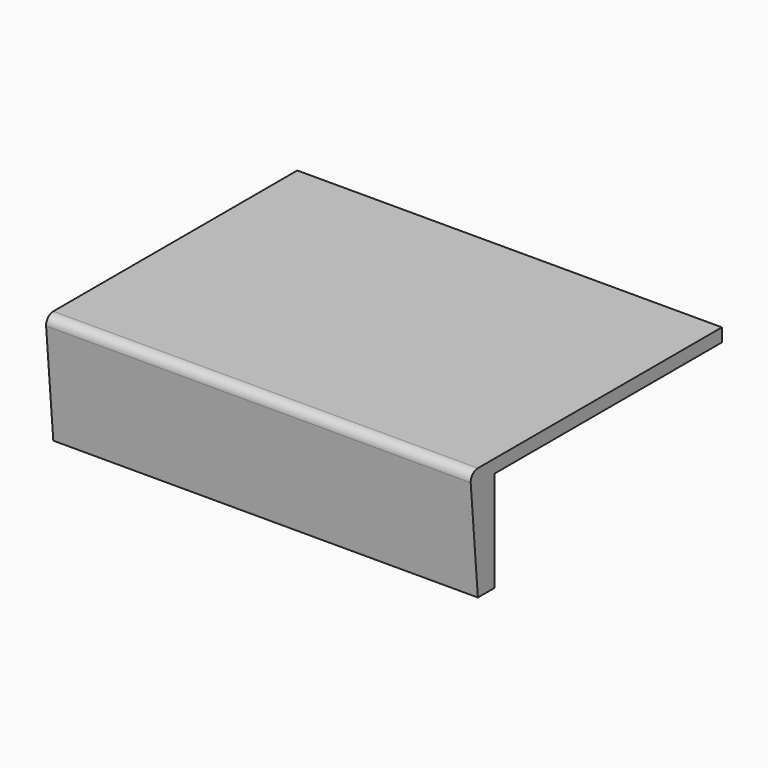
from build123d import *

# Parameters (mm, degrees)
F1_DEPTH = 609.6


with BuildPart() as f1:
    # F0 (on Right) → F1 (new body)
    with BuildSketch(Plane.YZ):
        with BuildLine():
            Line((-143.804814, -89.440058), (-143.804814, 55.022442))
            Line((-143.804814, 55.022442), (264.182686, 55.022442))
            Line((264.182686, 55.022442), (264.182686, 74.072442))
            Line((264.182686, 74.072442), (-173.666681, 74.072442))
            ThreePointArc((-173.666681, 74.072442), (-183.036482, 70.278105), (-186.667314, 60.843743))
            Line((-186.667314, 60.843743), (-173.74242, -89.440058))
            Line((-173.74242, -89.440058), (-143.804814, -89.440058))
        make_face()
    extrude(amount=F1_DEPTH)


solid = f1.part
